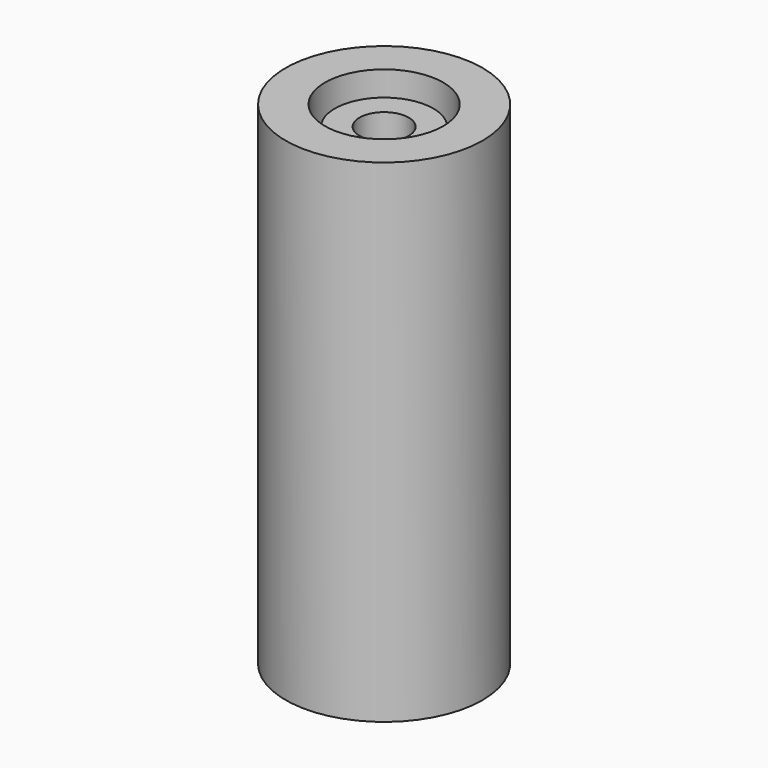
from build123d import *

# Parameters (mm, degrees)
F0_R      = 5
F1_DEPTH  = 25
F2_R      = 2.25
F3_DEPTH  = 25.001
F4_R      = 3
F5_DEPTH  = 10
F6_R      = 4
F7_DEPTH  = 20
F8_R      = 2.5
F9_DEPTH  = 4
F10_R     = 1.25
F11_DEPTH = 24.001
F12_R     = 2.25
F13_DEPTH = 18
F14_R     = 3
F14_R_2   = 2
F15_DEPTH = 4


with BuildPart() as f1:
    # F0 (on Top) → F1 (new body)
    with BuildSketch(Plane.XY):
        Circle(F0_R)
    extrude(amount=F1_DEPTH)

    # F2 (on face) → F3 (cut, through all)
    with BuildSketch(Plane.XY.offset(25)):
        Circle(F2_R)
    extrude(amount=-F3_DEPTH, mode=Mode.SUBTRACT)

    # F4 (on face) → F5 (cut)
    with BuildSketch(Plane.XY.offset(25)):
        Circle(F4_R)
    extrude(amount=-F5_DEPTH, mode=Mode.SUBTRACT)


with BuildPart() as f7:
    # F6 (on Top) → F7 (new body)
    with BuildSketch(Plane.XY):
        Circle(F6_R)
    extrude(amount=F7_DEPTH)

    # F8 (on face) → F9 (join)
    with BuildSketch(Plane.XY.offset(20)):
        Circle(F8_R)
    extrude(amount=F9_DEPTH)

    # F10 (on face) → F11 (cut, through all)
    with BuildSketch(Plane.XY.offset(24)):
        Circle(F10_R)
    extrude(amount=-F11_DEPTH, mode=Mode.SUBTRACT)

    # F12 (on face) → F13 (cut)
    with BuildSketch(Plane(origin=(0, 0, 0), x_dir=(1, 0, 0), z_dir=(0, 0, -1))):
        Circle(F12_R)
    extrude(amount=-F13_DEPTH, mode=Mode.SUBTRACT)


with BuildPart() as f15:
    # F14 (on Top) → F15 (new body)
    with BuildSketch(Plane.XY):
        Circle(F14_R)
        Circle(F14_R_2, mode=Mode.SUBTRACT)
    extrude(amount=F15_DEPTH)


solid = Compound([f1.part, f7.part, f15.part])
